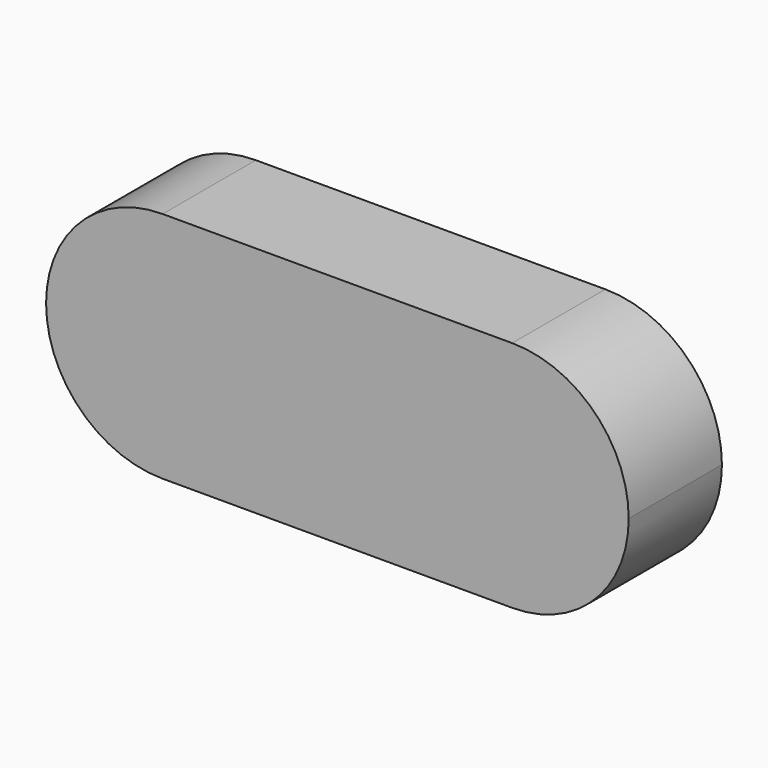
from build123d import *

# Parameters (mm, degrees)
F1_DEPTH = 6.35


with BuildPart() as f1:
    # F0 (on Front) → F1 (new body)
    with BuildSketch(Plane.XZ):
        with BuildLine():
            ThreePointArc((0, 6.35), (1.859872, 1.859872), (6.35, 0))
            Line((6.35, 0), (25.4, 0))
            ThreePointArc((25.4, 0), (29.890128, 1.859872), (31.75, 6.35))
            ThreePointArc((31.75, 6.35), (29.890128, 10.840128), (25.4, 12.7))
            Line((25.4, 12.7), (6.35, 12.7))
            ThreePointArc((6.35, 12.7), (1.859872, 10.840128), (0, 6.35))
        make_face()
    extrude(amount=F1_DEPTH)


solid = f1.part
